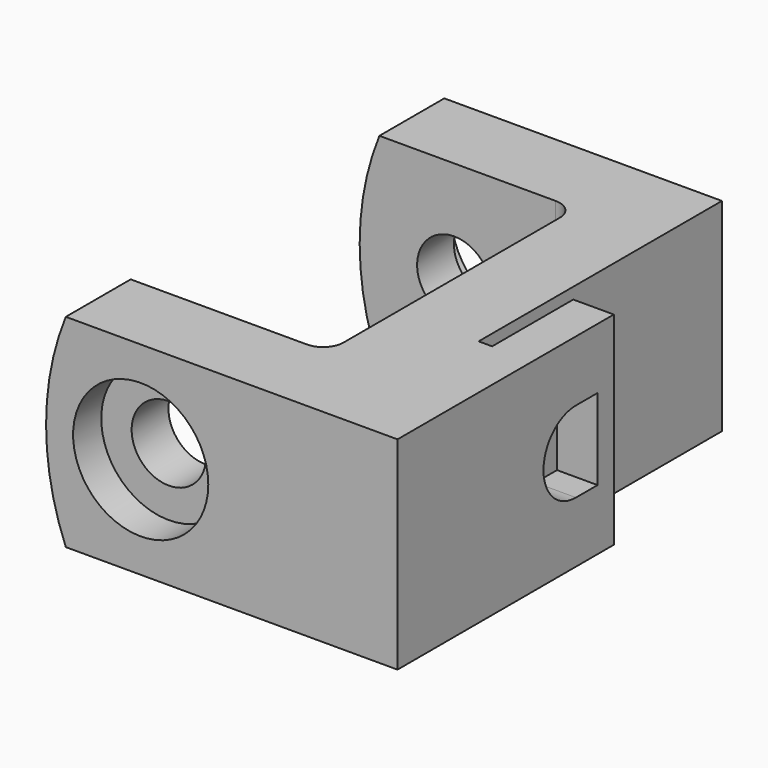
from build123d import *

# Parameters (mm, degrees)
F1_DEPTH       = 7.5
F3_D           = 3
F3_CBORE_D     = 6
F3_CBORE_DEPTH = 2.2
F5_DEPTH       = 3
F9_DEPTH       = 18.501
F9_DEPTH_BACK  = 16.501


with BuildPart() as f1:
    # F0 (on Top) → F1 (new body, symmetric)
    with BuildSketch(Plane.XY):
        with BuildLine():
            Line((-16, 18.5), (-16, 12.5))
            Line((-16, 12.5), (-1.5, 12.5))
            ThreePointArc((-1.5, 12.5), (-0.4393398282, 12.0606601718), (0, 11))
            Line((0, 11), (0, -9))
            ThreePointArc((0, -9), (-0.4393398282, -10.0606601718), (-1.5, -10.5))
            Line((-1.5, -10.5), (-16, -10.5))
            Line((-16, -10.5), (-16, -16.5))
            Line((-16, -16.5), (10, -16.5))
            Line((10, -16.5), (10, 3.5))
            Line((10, 3.5), (7, 3.5))
            Line((7, 3.5), (7, -4))
            Line((7, -4), (6, -4))
            Line((6, -4), (6, 18.5))
            Line((6, 18.5), (-16, 18.5))
        make_face()
    extrude(amount=F1_DEPTH, both=True)

    # F3 (through all)
    with Locations(Plane(origin=(0, 0, 0), x_dir=(0, -1, 0), z_dir=(-1, 0, 0))):
        with Locations((0, 0)):
            CounterBoreHole(F3_D / 2, F3_CBORE_D / 2, F3_CBORE_DEPTH)

    # F4 (on face) → F5 (cut, through all)
    with BuildSketch(Plane.YZ.offset(10)):
        with BuildLine():
            Line((2, 3), (0, 3))
            ThreePointArc((0, 3), (-3, 0), (0, -3))
            Line((0, -3), (2, -3))
            Line((2, -3), (2, 3))
        make_face()
    extrude(amount=-F5_DEPTH, mode=Mode.SUBTRACT)

    # F6 (on Top) → F7 (revolve, cut)
    with BuildSketch(Plane.XY):
        Polygon((-9, -16.5), (-4, -16.5), (-4, -13.9), (-6.25, -13.9), (-6.25, 15.9), (-4, 15.9), (-4, 18.5), (-9, 18.5), align=None)
    revolve(axis=Axis((-9, 21, 0), (0, 1, 0)), mode=Mode.SUBTRACT)

    # F8 (on Front) → F9 (cut, two sides)
    with BuildSketch(Plane.XZ) as f9_sk:
        with BuildLine():
            ThreePointArc((-14.5404962177, -7.5), (-16, 0), (-14.5404962177, 7.5))
            Line((-14.5404962177, 7.5), (-17.27, 7.5))
            Line((-17.27, 7.5), (-17.27, -7.5))
            Line((-17.27, -7.5), (-14.5404962177, -7.5))
        make_face()
    extrude(amount=-F9_DEPTH, mode=Mode.SUBTRACT)
    extrude(f9_sk.sketch, amount=F9_DEPTH_BACK, mode=Mode.SUBTRACT)


solid = f1.part
